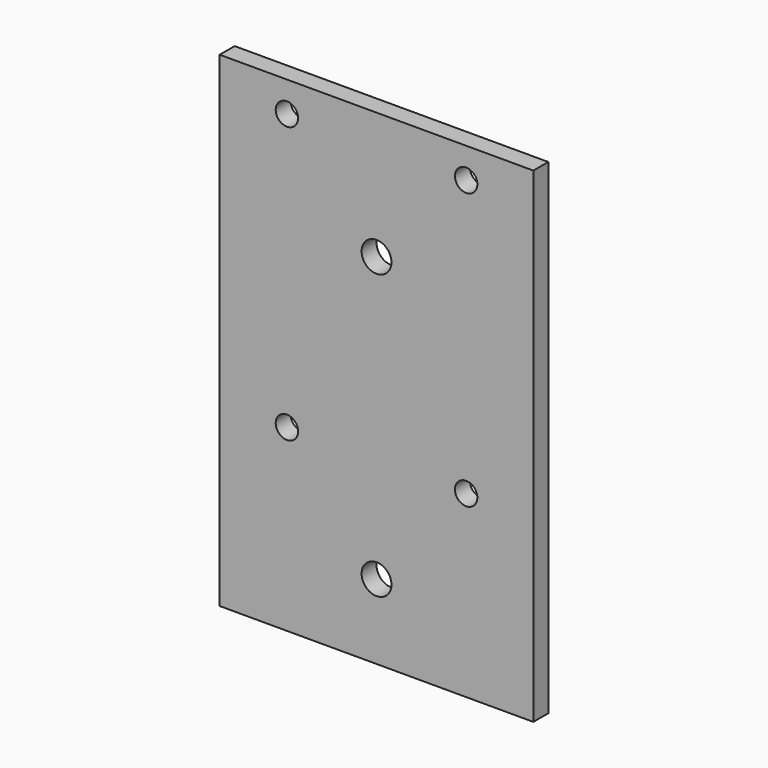
from build123d import *

# Parameters (mm, degrees)
F0_W     = 42
F0_H     = 65
F0_R     = 1.5
F0_R_2   = 2
F1_DEPTH = 1.25


with BuildPart() as f1:
    # F0 (on Front) → F1 (new body, symmetric)
    with BuildSketch(Plane.XZ):
        Rectangle(F0_W, F0_H)
        with Locations((-12, -8.5)):
            Circle(F0_R, mode=Mode.SUBTRACT)
        with Locations((0, -22.5)):
            Circle(F0_R_2, mode=Mode.SUBTRACT)
        with Locations((12, -8.5)):
            Circle(F0_R, mode=Mode.SUBTRACT)
        with Locations((-12, 28.4375)):
            Circle(F0_R, mode=Mode.SUBTRACT)
        with Locations((0, 15.5)):
            Circle(F0_R_2, mode=Mode.SUBTRACT)
        with Locations((12, 28.4375)):
            Circle(F0_R, mode=Mode.SUBTRACT)
    extrude(amount=F1_DEPTH, both=True)


solid = f1.part
